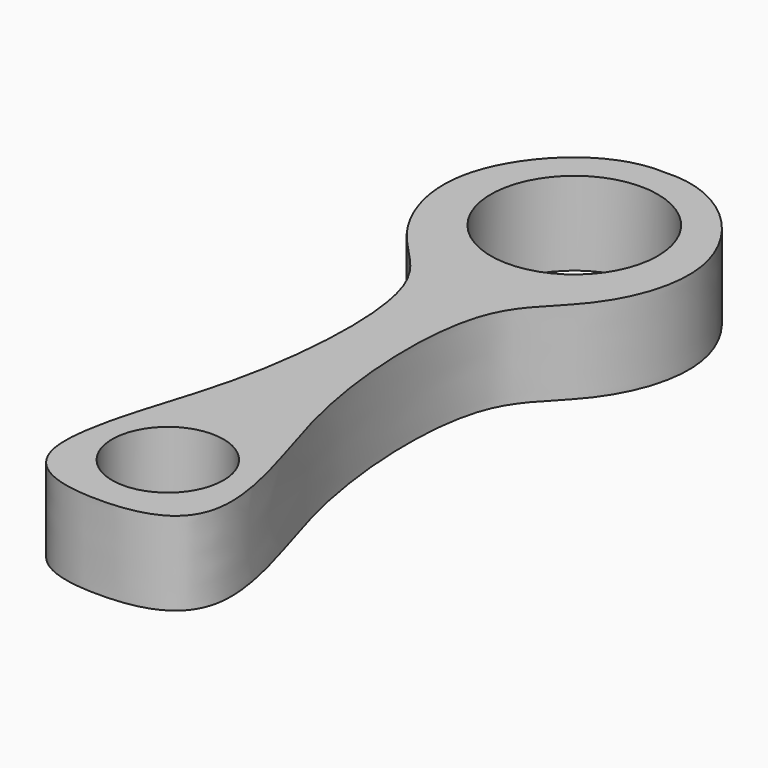
from build123d import *

# Parameters (mm, degrees)
F0_R     = 5.08
F0_R_2   = 7.62
F1_DEPTH = 7.62


with BuildPart() as f1:
    # F0 (on Top) → F1 (new body)
    with BuildSketch(Plane.XY):
        with BuildLine():
            add(Edge.make_bspline(
                [(0, 56.763751514), (5.2385396271, 57.1131572084), (13.5476141135, 48.5191739924), (9.1461602264, 37.1379686643), (1.8346483276, 32.5977735344), (2.8368490232, 12.7914418564), (8.3004051041, 0.8809699564), (7.6570323693, -7.9068010579), (0, -7.9068010579)],
                knots=[0, 0, 0, 0, 0.1773677743, 0.3307506796, 0.4633095702, 0.6652158745, 0.8437541877, 1, 1, 1, 1], degree=3))
            add(Edge.make_bspline(
                [(0, 56.763751514), (-5.2385396271, 57.1131572084), (-13.5476141135, 48.5191739924), (-9.1461602264, 37.1379686643), (-1.8346483276, 32.5977735344), (-2.8368490232, 12.7914418564), (-8.3004051041, 0.8809699564), (-7.6570323693, -7.9068010579), (0, -7.9068010579)],
                knots=[0, 0, 0, 0, 0.1773677743, 0.3307506796, 0.4633095702, 0.6652158745, 0.8437541877, 1, 1, 1, 1], degree=3))
        make_face()
        Circle(F0_R, mode=Mode.SUBTRACT)
        with Locations((0, 46.3786984667)):
            Circle(F0_R_2, mode=Mode.SUBTRACT)
    extrude(amount=F1_DEPTH)


solid = f1.part
